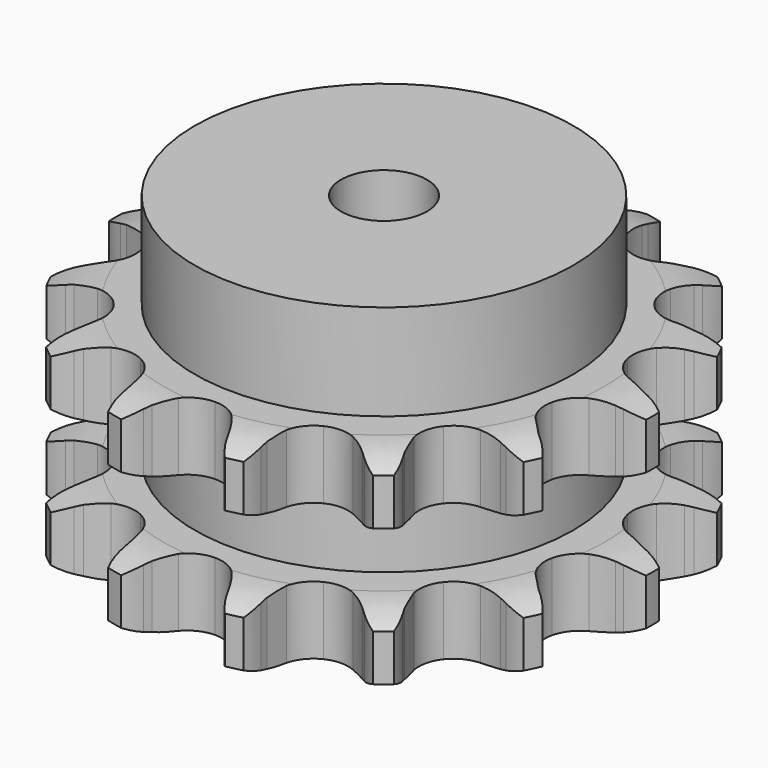
from build123d import *

# Parameters (mm, degrees)
PAD_DEPTH         = 47.7
SKETCH001_R       = 44
PAD001_DEPTH      = 70
SKETCH002_R       = 10
POCKET_DEPTH      = 0.0010001
POCKET_DEPTH_BACK = 70.001


with BuildPart() as part:
    # Sprocket → Pad (new body)
    with BuildSketch(Plane.XY):
        with BuildLine():
            ThreePointArc((-14.4505786854, 63.3121219525), (-11.6579252923, 60.8998875517), (-9.6345678098, 57.8138201064))
            Line((-9.6345678098, 57.8138201064), (-8.9035532249, 56.2663482891))
            ThreePointArc((-8.9035532249, 56.2663482891), (-7.6852349411, 54.0489261134), (-6.2057620325, 51.9965079158))
            ThreePointArc((-6.2057620325, 51.9965079158), (-3.4336975779, 49.8279497969), (0, 49.0554819344))
            ThreePointArc((0, 49.0554819344), (3.4336975779, 49.8279497969), (6.2057620325, 51.9965079158))
            ThreePointArc((6.2057620325, 51.9965079158), (7.6852349411, 54.0489261134), (8.9035532249, 56.2663482891))
            Line((8.9035532249, 56.2663482891), (9.6345678098, 57.8138201064))
            ThreePointArc((9.6345678098, 57.8138201064), (11.6579252923, 60.8998875517), (14.4505786854, 63.3121219525))
            ThreePointArc((14.4505786854, 63.3121219525), (15.9200431701, 59.927086959), (16.4040307881, 56.2687343564))
            Line((16.4040307881, 56.2687343564), (16.3912293128, 54.5573350837))
            ThreePointArc((16.3912293128, 54.5573350837), (16.5267927329, 52.030898244), (16.9692408827, 49.5398141065))
            ThreePointArc((16.9692408827, 49.5398141065), (18.5258825509, 46.3832570625), (21.2843759259, 44.1974620229))
            ThreePointArc((21.2843759259, 44.1974620229), (24.7131917899, 43.4036059743), (28.1516376684, 44.154655637))
            Line((28.1516376684, 44.154655637), (32.4348778515, 46.8311211543))
            ThreePointArc((32.4348778515, 46.8311211543), (33.0887758282, 47.383382623), (33.7649220927, 47.9081697443))
            ThreePointArc((33.7649220927, 47.9081697443), (36.9268986754, 49.8107185266), (40.489621723, 50.7723797276))
            ThreePointArc((40.489621723, 50.7723797276), (40.3448518361, 47.0849918366), (39.1936099062, 43.5789356765))
            Line((39.1936099062, 43.5789356765), (38.4395278598, 42.0425725631))
            ThreePointArc((38.4395278598, 42.0425725631), (37.4654864184, 39.7075128603), (36.7832775269, 37.2711525474))
            ThreePointArc((36.7832775269, 37.2711525474), (36.8161844355, 33.7517914136), (38.353120164, 30.5855927114))
            ThreePointArc((38.353120164, 30.5855927114), (41.0979352805, 28.3826456782), (44.5217362069, 27.5674322881))
            Line((44.5217362069, 27.5674322881), (49.5420771319, 28.120416129))
            ThreePointArc((49.5420771319, 28.120416129), (50.3708361227, 28.33427082), (51.2077194556, 28.5137188092))
            ThreePointArc((51.2077194556, 28.5137188092), (54.8820468972, 28.855925809), (58.5091986056, 28.1765450152))
            ThreePointArc((58.5091986056, 28.1765450152), (56.7788677988, 24.9171366214), (54.2204139043, 22.2577943252))
            Line((54.2204139043, 22.2577943252), (52.8744064844, 21.2007629282))
            ThreePointArc((52.8744064844, 21.2007629282), (50.9836810347, 19.5195675739), (49.3119349397, 17.6204821257))
            ThreePointArc((49.3119349397, 17.6204821257), (47.8145894718, 14.4353695366), (47.8255585834, 10.9158716557))
            ThreePointArc((47.8255585834, 10.9158716557), (49.3427286557, 7.7401543152), (52.0737588664, 5.5201408821))
            Line((52.0737588664, 5.5201408821), (56.8368604427, 3.840117815))
            ThreePointArc((56.8368604427, 3.840117815), (57.6763345654, 3.6732091842), (58.5081999589, 3.4717761661))
            ThreePointArc((58.5081999589, 3.4717761661), (61.9671326469, 2.1858630902), (64.9403111362, 0))
            ThreePointArc((64.9403111362, 0), (61.9671326469, -2.1858630902), (58.5081999589, -3.4717761661))
            Line((58.5081999589, -3.4717761661), (56.8368604427, -3.840117815))
            ThreePointArc((56.8368604427, -3.840117815), (54.4039323482, -4.5344674623), (52.0737588664, -5.5201408821))
            ThreePointArc((52.0737588664, -5.5201408821), (49.3427286557, -7.7401543152), (47.8255585834, -10.9158716557))
            ThreePointArc((47.8255585834, -10.9158716557), (47.8145894718, -14.4353695366), (49.3119349397, -17.6204821257))
            Line((49.3119349397, -17.6204821257), (52.8744064844, -21.2007629282))
            ThreePointArc((52.8744064844, -21.2007629282), (53.5583275935, -21.7153765796), (54.2204139043, -22.2577943252))
            ThreePointArc((54.2204139043, -22.2577943252), (56.7788677988, -24.9171366214), (58.5091986056, -28.1765450152))
            ThreePointArc((58.5091986056, -28.1765450152), (54.8820468972, -28.855925809), (51.2077194556, -28.5137188092))
            Line((51.2077194556, -28.5137188092), (49.5420771319, -28.120416129))
            ThreePointArc((49.5420771319, -28.120416129), (47.0488176397, -27.690395606), (44.5217362069, -27.5674322881))
            ThreePointArc((44.5217362069, -27.5674322881), (41.0979352805, -28.3826456782), (38.353120164, -30.5855927114))
            ThreePointArc((38.353120164, -30.5855927114), (36.8161844355, -33.7517914136), (36.7832775269, -37.2711525474))
            Line((36.7832775269, -37.2711525474), (38.4395278598, -42.0425725631))
            ThreePointArc((38.4395278598, -42.0425725631), (38.832436992, -42.8029656901), (39.1936099062, -43.5789356765))
            ThreePointArc((39.1936099062, -43.5789356765), (40.3448518361, -47.0849918366), (40.489621723, -50.7723797276))
            ThreePointArc((40.489621723, -50.7723797276), (36.9268986754, -49.8107185266), (33.7649220927, -47.9081697443))
            Line((33.7649220927, -47.9081697443), (32.4348778515, -46.8311211543))
            ThreePointArc((32.4348778515, -46.8311211543), (30.3751075819, -45.3619012995), (28.1516376684, -44.154655637))
            ThreePointArc((28.1516376684, -44.154655637), (24.7131917899, -43.4036059743), (21.2843759259, -44.1974620229))
            ThreePointArc((21.2843759259, -44.1974620229), (18.5258825509, -46.3832570625), (16.9692408827, -49.5398141065))
            Line((16.9692408827, -49.5398141065), (16.3912293128, -54.5573350837))
            ThreePointArc((16.3912293128, -54.5573350837), (16.4153059956, -55.4129025018), (16.4040307881, -56.2687343564))
            ThreePointArc((16.4040307881, -56.2687343564), (15.9200431701, -59.927086959), (14.4505786854, -63.3121219525))
            ThreePointArc((14.4505786854, -63.3121219525), (11.6579252923, -60.8998875517), (9.6345678098, -57.8138201064))
            Line((9.6345678098, -57.8138201064), (8.9035532249, -56.2663482891))
            ThreePointArc((8.9035532249, -56.2663482891), (7.6852349411, -54.0489261134), (6.2057620325, -51.9965079158))
            ThreePointArc((6.2057620325, -51.9965079158), (3.4336975779, -49.8279497969), (0, -49.0554819344))
            ThreePointArc((0, -49.0554819344), (-3.4336975779, -49.8279497969), (-6.2057620325, -51.9965079158))
            Line((-6.2057620325, -51.9965079158), (-8.9035532249, -56.2663482891))
            ThreePointArc((-8.9035532249, -56.2663482891), (-9.2530776737, -57.0476343784), (-9.6345678098, -57.8138201064))
            ThreePointArc((-9.6345678098, -57.8138201064), (-11.6579252923, -60.8998875517), (-14.4505786854, -63.3121219525))
            ThreePointArc((-14.4505786854, -63.3121219525), (-15.9200431701, -59.927086959), (-16.4040307881, -56.2687343564))
            Line((-16.4040307881, -56.2687343564), (-16.3912293128, -54.5573350837))
            ThreePointArc((-16.3912293128, -54.5573350837), (-16.5267927329, -52.030898244), (-16.9692408827, -49.5398141065))
            ThreePointArc((-16.9692408827, -49.5398141065), (-18.5258825509, -46.3832570625), (-21.2843759259, -44.1974620229))
            ThreePointArc((-21.2843759259, -44.1974620229), (-24.7131917899, -43.4036059743), (-28.1516376684, -44.154655637))
            Line((-28.1516376684, -44.154655637), (-32.4348778515, -46.8311211543))
            ThreePointArc((-32.4348778515, -46.8311211543), (-33.0887758282, -47.383382623), (-33.7649220927, -47.9081697443))
            ThreePointArc((-33.7649220927, -47.9081697443), (-36.9268986754, -49.8107185266), (-40.489621723, -50.7723797276))
            ThreePointArc((-40.489621723, -50.7723797276), (-40.3448518361, -47.0849918366), (-39.1936099062, -43.5789356765))
            Line((-39.1936099062, -43.5789356765), (-38.4395278598, -42.0425725631))
            ThreePointArc((-38.4395278598, -42.0425725631), (-37.4654864184, -39.7075128603), (-36.7832775269, -37.2711525474))
            ThreePointArc((-36.7832775269, -37.2711525474), (-36.8161844355, -33.7517914136), (-38.353120164, -30.5855927114))
            ThreePointArc((-38.353120164, -30.5855927114), (-41.0979352805, -28.3826456782), (-44.5217362069, -27.5674322881))
            Line((-44.5217362069, -27.5674322881), (-49.5420771319, -28.120416129))
            ThreePointArc((-49.5420771319, -28.120416129), (-50.3708361227, -28.33427082), (-51.2077194556, -28.5137188092))
            ThreePointArc((-51.2077194556, -28.5137188092), (-54.8820468972, -28.855925809), (-58.5091986056, -28.1765450152))
            ThreePointArc((-58.5091986056, -28.1765450152), (-56.7788677988, -24.9171366214), (-54.2204139043, -22.2577943252))
            Line((-54.2204139043, -22.2577943252), (-52.8744064844, -21.2007629282))
            ThreePointArc((-52.8744064844, -21.2007629282), (-50.9836810347, -19.5195675739), (-49.3119349397, -17.6204821257))
            ThreePointArc((-49.3119349397, -17.6204821257), (-47.8145894718, -14.4353695366), (-47.8255585834, -10.9158716557))
            ThreePointArc((-47.8255585834, -10.9158716557), (-49.3427286557, -7.7401543152), (-52.0737588664, -5.5201408821))
            Line((-52.0737588664, -5.5201408821), (-56.8368604427, -3.840117815))
            ThreePointArc((-56.8368604427, -3.840117815), (-57.6763345654, -3.6732091842), (-58.5081999589, -3.4717761661))
            ThreePointArc((-58.5081999589, -3.4717761661), (-61.9671326469, -2.1858630902), (-64.9403111362, 0))
            ThreePointArc((-64.9403111362, 0), (-61.9671326469, 2.1858630902), (-58.5081999589, 3.4717761661))
            Line((-58.5081999589, 3.4717761661), (-56.8368604427, 3.840117815))
            ThreePointArc((-56.8368604427, 3.840117815), (-54.4039323482, 4.5344674623), (-52.0737588664, 5.5201408821))
            ThreePointArc((-52.0737588664, 5.5201408821), (-49.3427286557, 7.7401543152), (-47.8255585834, 10.9158716557))
            ThreePointArc((-47.8255585834, 10.9158716557), (-47.8145894718, 14.4353695366), (-49.3119349397, 17.6204821257))
            Line((-49.3119349397, 17.6204821257), (-52.8744064844, 21.2007629282))
            ThreePointArc((-52.8744064844, 21.2007629282), (-53.5583275935, 21.7153765796), (-54.2204139043, 22.2577943252))
            ThreePointArc((-54.2204139043, 22.2577943252), (-56.7788677988, 24.9171366214), (-58.5091986056, 28.1765450152))
            ThreePointArc((-58.5091986056, 28.1765450152), (-54.8820468972, 28.855925809), (-51.2077194556, 28.5137188092))
            Line((-51.2077194556, 28.5137188092), (-49.5420771319, 28.120416129))
            ThreePointArc((-49.5420771319, 28.120416129), (-47.0488176397, 27.690395606), (-44.5217362069, 27.5674322881))
            ThreePointArc((-44.5217362069, 27.5674322881), (-41.0979352805, 28.3826456782), (-38.353120164, 30.5855927114))
            ThreePointArc((-38.353120164, 30.5855927114), (-36.8161844355, 33.7517914136), (-36.7832775269, 37.2711525474))
            Line((-36.7832775269, 37.2711525474), (-38.4395278598, 42.0425725631))
            ThreePointArc((-38.4395278598, 42.0425725631), (-38.832436992, 42.8029656901), (-39.1936099062, 43.5789356765))
            ThreePointArc((-39.1936099062, 43.5789356765), (-40.3448518361, 47.0849918366), (-40.489621723, 50.7723797276))
            ThreePointArc((-40.489621723, 50.7723797276), (-36.9268986754, 49.8107185266), (-33.7649220927, 47.9081697443))
            Line((-33.7649220927, 47.9081697443), (-32.4348778515, 46.8311211543))
            ThreePointArc((-32.4348778515, 46.8311211543), (-30.3751075819, 45.3619012995), (-28.1516376684, 44.154655637))
            ThreePointArc((-28.1516376684, 44.154655637), (-24.7131917899, 43.4036059743), (-21.2843759259, 44.1974620229))
            ThreePointArc((-21.2843759259, 44.1974620229), (-18.5258825509, 46.3832570625), (-16.9692408827, 49.5398141065))
            Line((-16.9692408827, 49.5398141065), (-16.3912293128, 54.5573350837))
            ThreePointArc((-16.3912293128, 54.5573350837), (-16.4153059956, 55.4129025018), (-16.4040307881, 56.2687343564))
            ThreePointArc((-16.4040307881, 56.2687343564), (-15.9200431701, 59.927086959), (-14.4505786854, 63.3121219525))
        make_face()
    extrude(amount=PAD_DEPTH)

    # Sketch → Groove (revolve, cut)
    with BuildSketch(Plane.XZ):
        with BuildLine():
            ThreePointArc((51.3757022694, 0), (57.0765793949, 0.6326982121), (62.5, 2.5))
            Line((62.5, 2.5), (62.5, 13.3))
            ThreePointArc((62.5, 13.3), (57.0765793949, 15.1673017879), (51.3757022694, 15.8))
            Line((44, 15.8), (51.3757022694, 15.8))
            Line((44, 31.9), (44, 15.8))
            Line((51.3757022694, 31.9), (44, 31.9))
            ThreePointArc((51.3757022694, 31.9), (57.0765793949, 32.5326982121), (62.5, 34.4))
            Line((62.5, 34.4), (62.5, 45.2))
            ThreePointArc((62.5, 45.2), (57.0765793949, 47.0673017879), (51.3757022694, 47.7))
            Line((51.3757022694, 47.7), (72.5, 47.7))
            Line((72.5, 47.7), (72.5, 0))
            Line((51.3757022694, 0), (72.5, 0))
        make_face()
    revolve(axis=Axis((0, 0, 0), (0, 0, 1)), mode=Mode.SUBTRACT)

    # Sketch001 → Pad001 (join)
    with BuildSketch(Plane.XY):
        Circle(SKETCH001_R)
    extrude(amount=PAD001_DEPTH)

    # Sketch002 → Pocket (cut, two sides)
    with BuildSketch(Plane.XY) as pocket_sk:
        Circle(SKETCH002_R)
    extrude(amount=-POCKET_DEPTH, mode=Mode.SUBTRACT)
    extrude(pocket_sk.sketch, amount=POCKET_DEPTH_BACK, mode=Mode.SUBTRACT)


solid = part.part
